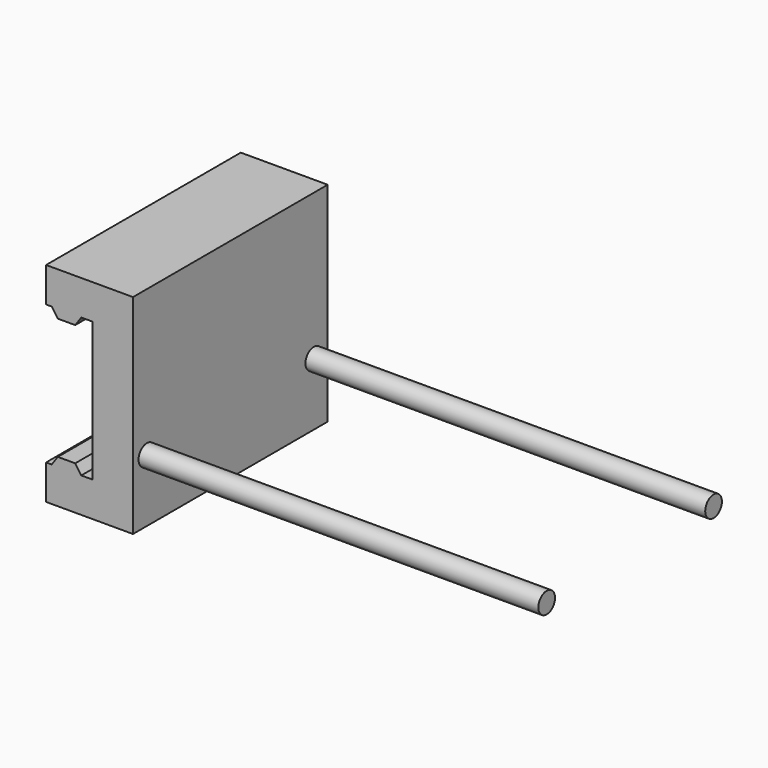
from build123d import *

# Parameters (mm, degrees)
F1_DEPTH = 70
F2_R     = 3
F3_DEPTH = 115


with BuildPart() as f1:
    # F0 (on Front) → F1 (new body)
    with BuildSketch(Plane.XZ):
        Polygon((-7.960861, 26.540911), (-7.960861, 16.540911), (-6.33612, 16.540911), (-4.585601, 14.040911), (0.414399, 14.040911), (2.164918, 16.540911), (5.414399, 16.540911), (5.414399, -23.459089), (2.164918, -23.459089), (0.414399, -20.959089), (-4.585601, -20.959089), (-6.33612, -23.459089), (-7.960861, -23.459089), (-7.960861, -33.459089), (17.039139, -33.459089), (17.039139, 26.540911), align=None)
    extrude(amount=F1_DEPTH)

    # F2 (on face) → F3 (join)
    with BuildSketch(Plane.YZ.offset(17.039139)):
        with Locations((-65, -15.459089)):
            Circle(F2_R)
        with Locations((-5, -15.459089)):
            Circle(F2_R)
    extrude(amount=F3_DEPTH)


solid = f1.part
